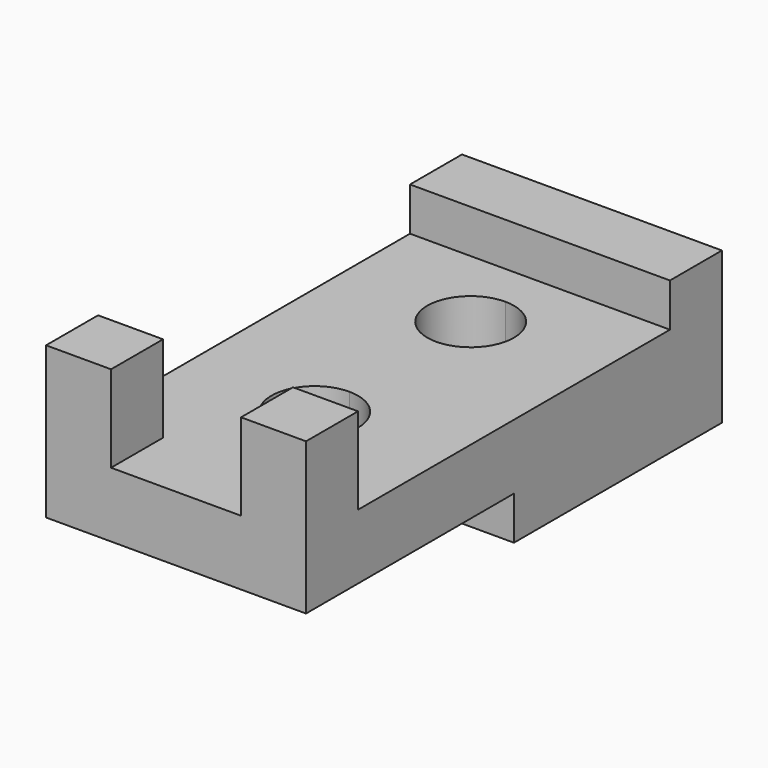
from build123d import *

# Parameters (mm, degrees)
F0_W      = 60
F0_H      = 120
F1_DEPTH  = 15
F2_W      = 60
F2_H      = 15
F3_DEPTH  = 10
F4_W      = 15
F4_H      = 15
F5_DEPTH  = 10
F6_W      = 60
F6_H      = 60
F7_DEPTH  = 10
F5_FACE_W = 15
F5_FACE_H = 15
F8_DEPTH  = 10
F10_DEPTH = 52.8


with BuildPart() as f1:
    # F0 (on Top) → F1 (new body)
    with BuildSketch(Plane.XY):
        Rectangle(F0_W, F0_H)
    extrude(amount=F1_DEPTH)

    # F2 (on face) → F3 (join)
    with BuildSketch(Plane.XY.offset(15)):
        with Locations((0, 52.5)):
            Rectangle(F2_W, F2_H)
    extrude(amount=F3_DEPTH)

    # F4 (on face) → F5 (join)
    with BuildSketch(Plane.XY.offset(15)):
        with Locations((-22.5, -52.5)):
            Rectangle(F4_W, F4_H)
        with Locations((22.5, -52.5)):
            Rectangle(F4_W, F4_H)
    extrude(amount=F5_DEPTH)

    # F6 (on face) → F7 (join)
    with BuildSketch(Plane(origin=(0, 0, 0), x_dir=(1, 0, 0), z_dir=(0, 0, -1))):
        with Locations((0, -30)):
            Rectangle(F6_W, F6_H)
    extrude(amount=F7_DEPTH)

    # F5_face (on face) → F8 (join)
    with BuildSketch(Plane(origin=(-22.5, -52.5, 25), x_dir=(1, 0, 0), z_dir=(0, 0, 1))):
        Rectangle(F5_FACE_W, F5_FACE_H)
        with Locations((45, 0)):
            Rectangle(F5_FACE_W, F5_FACE_H)
    extrude(amount=F8_DEPTH)

    # F9 (on face) → F10 (cut)
    with BuildSketch(Plane.XY.offset(15)):
        with BuildLine():
            ThreePointArc((10, 25), (7.071068, 32.071068), (0, 35))
            Line((0, 35), (0, 25))
            Line((0, 25), (0, 15))
            ThreePointArc((0, 15), (7.071068, 17.928932), (10, 25))
        make_face()
        with BuildLine():
            Line((0, 25), (0, 35))
            ThreePointArc((0, 35), (-10, 25), (0, 15))
            Line((0, 15), (0, 25))
        make_face()
        with BuildLine():
            ThreePointArc((10, -20), (7.071068, -12.928932), (0, -10))
            ThreePointArc((0, -10), (-7.071068, -27.071068), (10, -20))
        make_face()
    extrude(amount=-F10_DEPTH, mode=Mode.SUBTRACT)


solid = f1.part
